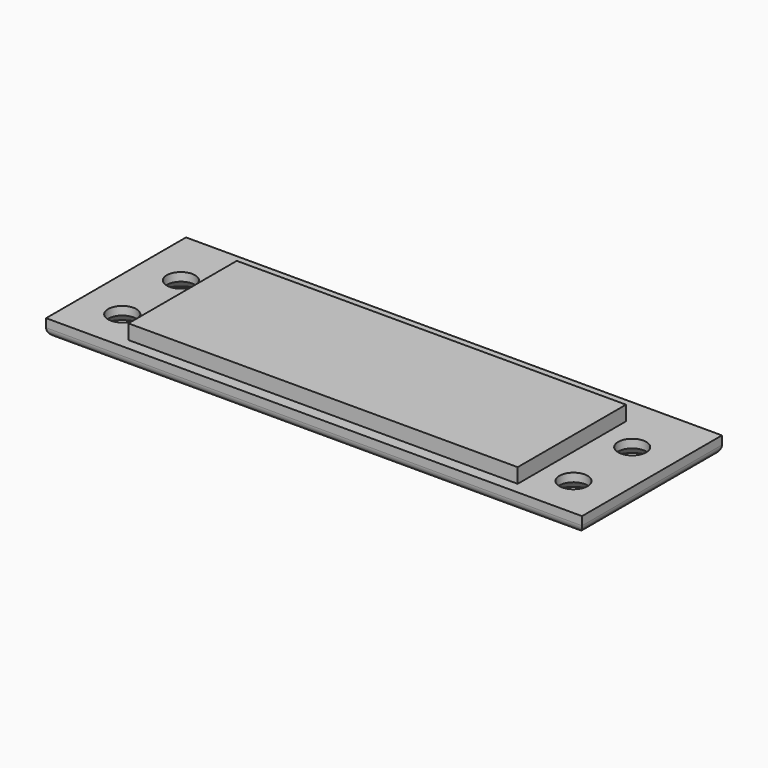
from build123d import *

# Parameters (mm, degrees)
F0_W     = 95
F0_H     = 31
F0_W_2   = 69
F0_H_2   = 24
F1_DEPTH = 3
F2_DEPTH = 5.6
F3_R     = 1.5
F4_R     = 2.5
F5_DEPTH = 25
F6_SIZE  = 1.5


with BuildPart() as f1:
    # F0 (on Top) → F1 (new body)
    with BuildSketch(Plane.XY):
        with Locations((7.447391, -15.3567)):
            Rectangle(F0_W, F0_H)
        with Locations((7.447391, -16.8567)):
            Rectangle(F0_W_2, F0_H_2, mode=Mode.SUBTRACT)
    extrude(amount=F1_DEPTH)

    # F0 (on Top) → F2 (join)
    with BuildSketch(Plane.XY):
        with Locations((7.447391, -16.8567)):
            Rectangle(F0_W_2, F0_H_2)
    extrude(amount=F2_DEPTH)

    # F3
    f3_edges = [f1.edges().sort_by_distance(p)[0] for p in [
        (-40.052609, -15.3567, 0),
        (7.447391, 0.1433, 0),
        (7.447391, -30.8567, 0),
        (54.947391, -15.3567, 0),
    ]]
    fillet(f3_edges, radius=F3_R)

    # F4 (on face) → F5 (cut)
    with BuildSketch(Plane.XY.offset(5.6)):
        with Locations((-32.552609, -10.3567)):
            Circle(F4_R)
        with Locations((-32.552609, -23.3567)):
            Circle(F4_R)
        with Locations((47.447391, -23.3567)):
            Circle(F4_R)
        with Locations((47.447391, -10.3567)):
            Circle(F4_R)
    extrude(amount=-F5_DEPTH, mode=Mode.SUBTRACT)

    # F6
    f6_edges = [f1.edges().sort_by_distance(p)[0] for p in [
        (-38.552609, -15.3567, 0),
        (7.447391, -1.3567, 0),
        (7.447391, -29.3567, 0),
        (53.447391, -15.3567, 0),
        (-35.052609, -23.3567, 0),
        (44.947391, -23.3567, 0),
        (-35.052609, -10.3567, 0),
        (44.947391, -10.3567, 0),
    ]]
    chamfer(f6_edges, length=F6_SIZE)


solid = f1.part
